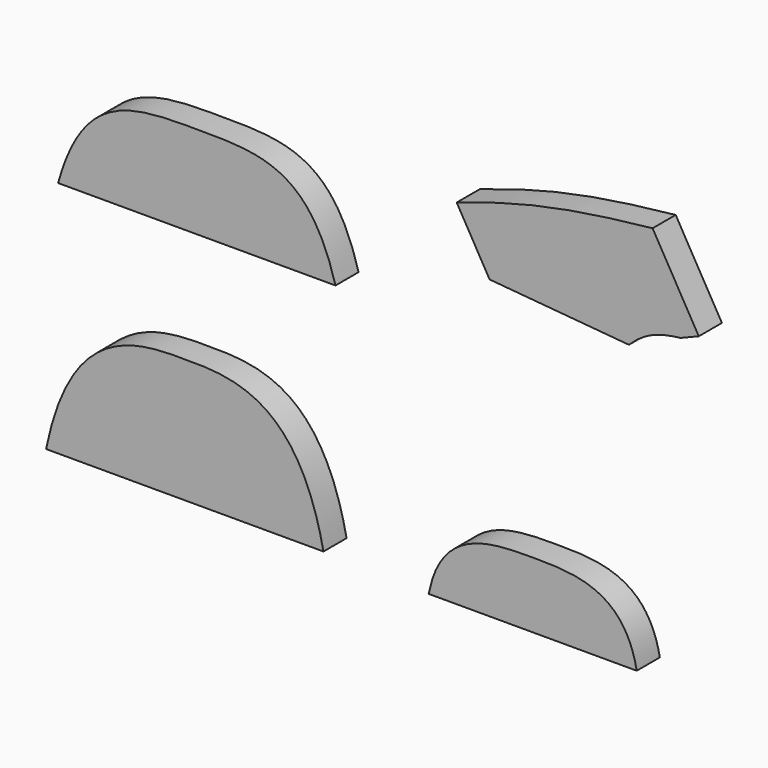
from build123d import *

# Parameters (mm, degrees)
F1_DEPTH = 25


with BuildPart() as f1:
    # F0 (on Front) → F1 (new body)
    with BuildSketch(Plane.XZ):
        with BuildLine():
            add(Edge.make_bspline(
                [(-209.727108, 130.487437), (-264.727108, 130.487437), (-307.545149, 130.487437), (-329.727108, 50.487437)],
                knots=[0, 0, 0, 0, 144.222051, 144.222051, 144.222051, 144.222051], degree=3))
            Line((-329.727108, 50.487437), (-89.727108, 50.487437))
            add(Edge.make_bspline(
                [(-209.727108, 130.487437), (-154.727108, 130.487437), (-111.909068, 130.487437), (-89.727108, 50.487437)],
                knots=[0, 0, 0, 0, 144.222051, 144.222051, 144.222051, 144.222051], degree=3))
        make_face()
        with BuildLine():
            add(Edge.make_bspline(
                [(-340.13229, -155.519664), (-318.40942, -48.05428), (-260.13229, -48.05428), (-220.13229, -48.05428)],
                knots=[0, 0, 0, 0, 161.08634, 161.08634, 161.08634, 161.08634], degree=3))
            Line((-340.13229, -155.519664), (-100.13229, -155.519664))
            add(Edge.make_bspline(
                [(-220.13229, -48.05428), (-180.13229, -48.05428), (-121.855161, -48.05428), (-100.13229, -155.519664)],
                knots=[0, 0, 0, 0, 161.08634, 161.08634, 161.08634, 161.08634], degree=3))
        make_face()
        with BuildLine():
            Line((-9.075422, -158.183262), (170.924578, -158.183262))
            add(Edge.make_bspline(
                [(80.924578, -101.183262), (115.924578, -101.183262), (160.050973, -101.183262), (170.924578, -158.183262)],
                knots=[0, 0, 0, 0, 106.531685, 106.531685, 106.531685, 106.531685], degree=3))
            add(Edge.make_bspline(
                [(-9.075422, -158.183262), (1.798183, -101.183262), (45.924578, -101.183262), (80.924578, -101.183262)],
                knots=[0, 0, 0, 0, 106.531685, 106.531685, 106.531685, 106.531685], degree=3))
        make_face()
        with BuildLine():
            Line((208.865712, 107.662402), (224.627837, 114.030714))
            Line((224.627837, 114.030714), (184.627837, 183.312746))
            add(Edge.make_bspline(
                [(15.127837, 147.805705), (72.169736, 167.419079), (112.398855, 175.624958), (184.627837, 183.312746)],
                knots=[0, 0, 0, 0, 173.179098, 173.179098, 173.179098, 173.179098], degree=3))
            Line((15.127837, 147.805705), (43.627837, 98.442257))
            Line((43.627837, 98.442257), (164.167396, 87.896412))
            add(Edge.make_bspline(
                [(164.167396, 87.896412), (177.380963, 100.709568), (188.845151, 105.259935), (208.865712, 107.662402)],
                knots=[0, 0, 0, 0, 48.873652, 48.873652, 48.873652, 48.873652], degree=3))
        make_face()
    extrude(amount=F1_DEPTH)


solid = f1.part
